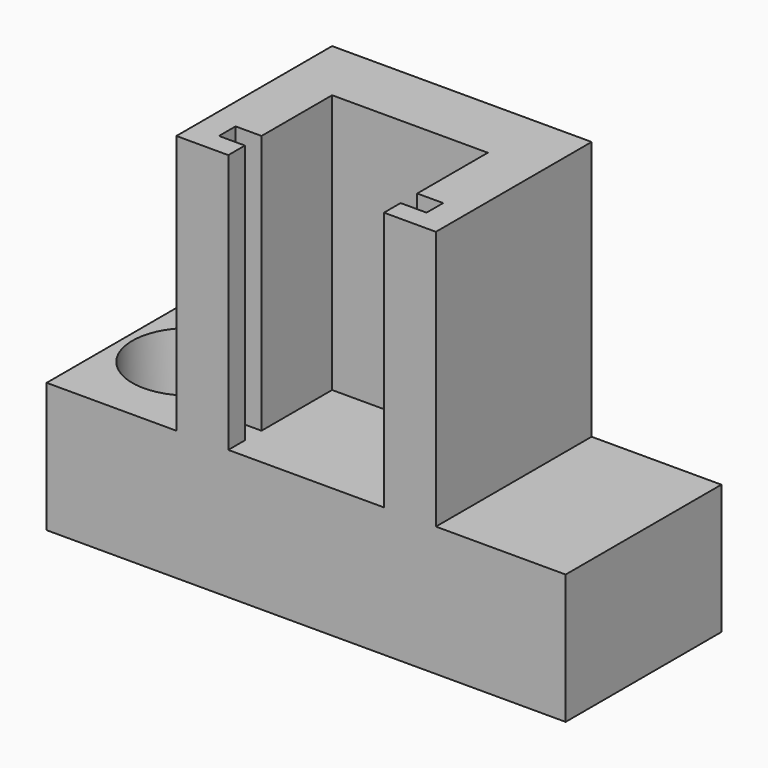
from build123d import *

# Parameters (mm, degrees)
F0_W           = 25.4
F0_H           = 9.525
F1_DEPTH       = 19.05
F2_W           = 6.35
F2_H           = 12.7
F3_DEPTH       = 25.4
F5_D           = 3.5814
F5_DEPTH       = 6.731
F5_CBORE_D     = 5.588
F5_CBORE_DEPTH = 3.175
F6_W           = 7.62
F6_H           = 12.7
F7_DEPTH       = 6.35
F8_W           = 10.16
F8_H           = 1.016
F9_DEPTH       = 12.7


with BuildPart() as f1:
    # F0 (on Top) → F1 (new body)
    with BuildSketch(Plane.XY):
        Rectangle(F0_W, F0_H)
    extrude(amount=F1_DEPTH)

    # F2 (on face) → F3 (cut)
    with BuildSketch(Plane.XZ.offset(4.7625)):
        with Locations((-9.525, 12.7)):
            Rectangle(F2_W, F2_H)
        with Locations((9.525, 12.7)):
            Rectangle(F2_W, F2_H)
    extrude(amount=-F3_DEPTH, mode=Mode.SUBTRACT)

    # F5
    with Locations(Plane.XY.offset(6.35)):
        with Locations((-9.525, 0)):
            CounterBoreHole(F5_D / 2, F5_CBORE_D / 2, F5_CBORE_DEPTH, depth=F5_DEPTH)

    # F6 (on face) → F7 (cut)
    with BuildSketch(Plane.XZ.offset(4.7625)):
        with Locations((0, 12.7)):
            Rectangle(F6_W, F6_H)
    extrude(amount=-F7_DEPTH, mode=Mode.SUBTRACT)

    # F8 (on face) → F9 (cut)
    with BuildSketch(Plane.XY.offset(19.05)):
        with Locations((0, -3.2385)):
            Rectangle(F8_W, F8_H)
        with Locations((0, -3.2385)):
            Rectangle(F8_W, F8_H)
    extrude(amount=-F9_DEPTH, mode=Mode.SUBTRACT)


solid = f1.part
